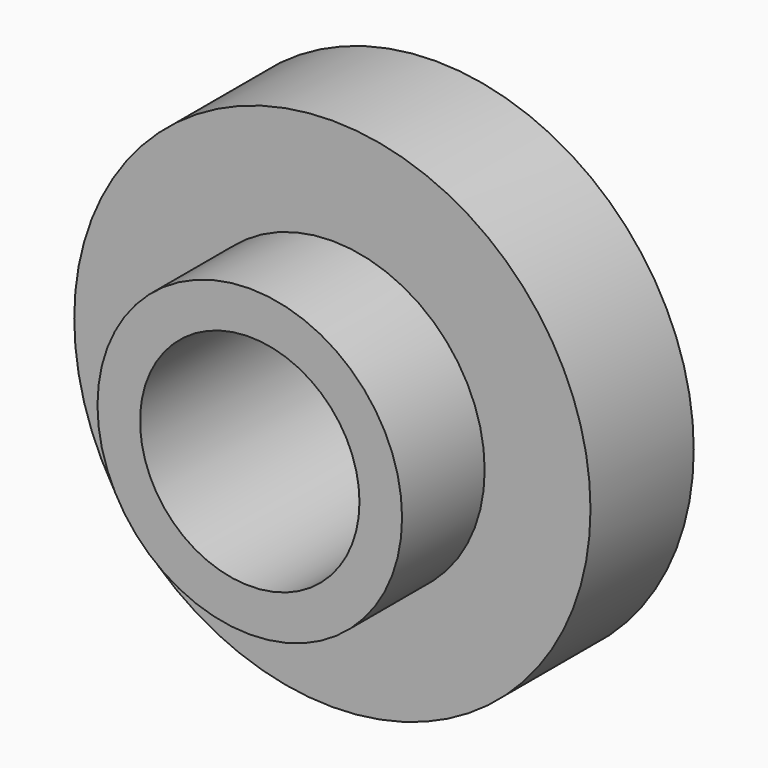
from build123d import *

# Parameters (mm, degrees)
F0_R     = 10
F0_R_2   = 5.9
F1_DEPTH = 2.5
F0_R_3   = 4.25
F2_DEPTH = 6.5
F3_R     = 0.7


with BuildPart() as f1:
    # F0 (on Front) → F1 (new body, symmetric)
    with BuildSketch(Plane.XZ):
        Circle(F0_R)
        Circle(F0_R_2, mode=Mode.SUBTRACT)
    extrude(amount=F1_DEPTH, both=True)

    # F0 (on Front) → F2 (join, symmetric)
    with BuildSketch(Plane.XZ):
        Circle(F0_R_2)
        Circle(F0_R_3, mode=Mode.SUBTRACT)
    extrude(amount=F2_DEPTH, both=True)

    # F3
    f3_edges = [f1.edges().sort_by_distance(p)[0] for p in [
        (-5.9, 6.5, 0),
    ]]
    fillet(f3_edges, radius=F3_R)


solid = f1.part
